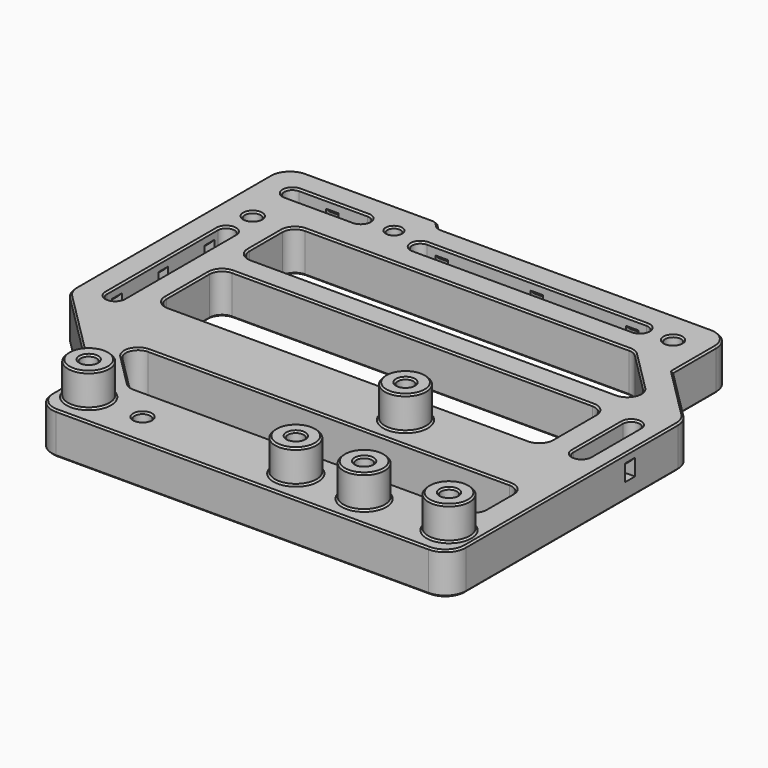
from build123d import *

# Parameters (mm, degrees)
SKETCH_R                                   = 1.9
SKETCH_R_2                                 = 1.6
SKETCH_W                                   = 93
SKETCH_H                                   = 19
PAD_DEPTH                                  = 10
FILLET_R                                   = 5
FILLET001_R                                = 2
FILLET002_R                                = 3
SKETCH001_R                                = 5
SKETCH001_R_2                              = 1.9
PAD001_DEPTH                               = 9
CHAMFER_SIZE                               = 0.4
SKETCH005_W                                = 3
SKETCH005_H                                = 3
POCKET002_DEPTH                            = 6
SKETCH006_W                                = 3
SKETCH006_H                                = 3
POCKET003_DEPTH                            = 4.5
SKETCH007_W                                = 3
SKETCH007_H                                = 3
POCKET004_DEPTH                            = 8
CHAMFER009008004003002002004004004004_SIZE = 1


with BuildPart() as part:
    # Sketch → Pad (new body)
    with BuildSketch(Plane.XY):
        Polygon((-7.5, 97), (-7.5, 31.5), (16, 8), (16, -8), (116, -8), (116, 63), (102, 77), (102, 95), (31, 95), (29, 97), align=None)
        with Locations((35.5, 0)):
            Circle(SKETCH_R, mode=Mode.SUBTRACT)
        with Locations((75, 0)):
            Circle(SKETCH_R_2, mode=Mode.SUBTRACT)
        with Locations((94, 87)):
            Circle(SKETCH_R, mode=Mode.SUBTRACT)
        with Locations((25, 89)):
            Circle(SKETCH_R_2, mode=Mode.SUBTRACT)
        with Locations((0.5, 77)):
            Circle(SKETCH_R, mode=Mode.SUBTRACT)
        with Locations((109.5, 0)):
            Circle(SKETCH_R, mode=Mode.SUBTRACT)
        with BuildLine():
            ThreePointArc((0.5, 91), (-1.5, 89), (0.5, 87))
            Line((0.5, 87), (17, 87))
            ThreePointArc((17, 87), (19, 89), (17, 91))
            Line((0.5, 91), (17, 91))
        make_face(mode=Mode.SUBTRACT)
        with BuildLine():
            ThreePointArc((2.5, 69), (0.5, 71), (-1.5, 69))
            Line((-1.5, 69), (-1.5, 35.5))
            ThreePointArc((-1.5, 35.5), (0.5, 33.5), (2.5, 35.5))
            Line((2.5, 69), (2.5, 35.5))
        make_face(mode=Mode.SUBTRACT)
        with BuildLine():
            ThreePointArc((111.5, 55), (109.5, 57), (107.5, 55))
            Line((107.5, 55), (107.5, 40))
            ThreePointArc((107.5, 40), (109.5, 38), (111.5, 40))
            Line((111.5, 55), (111.5, 40))
        make_face(mode=Mode.SUBTRACT)
        with BuildLine():
            ThreePointArc((33, 89), (31, 87), (33, 85))
            Line((33, 85), (86, 85))
            ThreePointArc((86, 85), (88, 87), (86, 89))
            Line((33, 89), (86, 89))
        make_face(mode=Mode.SUBTRACT)
        with Locations((55, 47.5)):
            Rectangle(SKETCH_W, SKETCH_H, mode=Mode.SUBTRACT)
        Polygon((26, 8), (109.5, 8), (109.5, 22), (12, 22), align=None, mode=Mode.SUBTRACT)
        Polygon((8.5, 79), (8.5, 63), (107, 63), (91, 79), align=None, mode=Mode.SUBTRACT)
    extrude(amount=PAD_DEPTH)

    # Fillet
    fillet_edges = [part.edges().sort_by_distance(p)[0] for p in [
        (-7.5, 97, 5),
        (-7.5, 31.5, 5),
        (16, 8, 5),
        (16, -8, 5),
        (116, -8, 5),
        (116, 63, 5),
        (102, 95, 5),
    ]]
    fillet(fillet_edges, radius=FILLET_R)

    # Fillet001
    fillet001_edges = [part.edges().sort_by_distance(p)[0] for p in [
        (29, 97, 5),
        (31, 95, 5),
    ]]
    fillet(fillet001_edges, radius=FILLET001_R)

    # Fillet002
    fillet002_edges = [part.edges().sort_by_distance(p)[0] for p in [
        (26, 8, 5),
        (12, 22, 5),
        (8.5, 57, 5),
        (8.5, 79, 5),
        (8.5, 63, 5),
        (8.5, 38, 5),
        (109.5, 22, 5),
        (101.5, 57, 5),
        (91, 79, 5),
        (107, 63, 5),
        (101.5, 38, 5),
        (109.5, 8, 5),
    ]]
    fillet(fillet002_edges, radius=FILLET002_R)

    # Sketch001 (on DatumPlane) → Pad001 (join)
    with BuildSketch(Plane.XY.offset(9)):
        with Locations((109.5, 0)):
            Circle(SKETCH001_R)
        with Locations((109.5, 0)):
            Circle(SKETCH001_R_2, mode=Mode.SUBTRACT)
        with Locations((89, 0)):
            Circle(SKETCH001_R)
        with Locations((89, 0)):
            Circle(SKETCH001_R_2, mode=Mode.SUBTRACT)
        with Locations((72.5, 0)):
            Circle(SKETCH001_R)
        with Locations((72.5, 0)):
            Circle(SKETCH001_R_2, mode=Mode.SUBTRACT)
        with Locations((22.5, 0)):
            Circle(SKETCH001_R)
        with Locations((22.5, 0)):
            Circle(SKETCH001_R_2, mode=Mode.SUBTRACT)
        with Locations((75, 30)):
            Circle(SKETCH001_R)
        with Locations((75, 30)):
            Circle(SKETCH001_R_2, mode=Mode.SUBTRACT)
    extrude(amount=PAD001_DEPTH)

    # Chamfer
    chamfer_edges = [part.edges().sort_by_distance(p)[0] for p in [
        (50.62868, 79, 0),
        (90.90541, 78.771639, 0),
        (9.37868, 78.12132, 0),
        (96.87868, 73.12132, 0),
        (8.5, 71, 0),
        (102.528998, 64.85195, 0),
        (9.37868, 63.87868, 0),
        (55.62868, 63, 0),
        (12.835786, 97, 0),
        (28.93694, 96.847759, 0),
        (-6.035534, 95.535534, 0),
        (30, 96, 0),
        (-7.5, 62.785534, 0),
        (31.06306, 95.152241, 0),
        (-7.119398, 31.657651, 0),
        (64.414214, 95, 0),
        (4.25, 19.75, 0),
        (100.535534, 93.535534, 0),
        (15.619398, 7.842349, 0),
        (102, 83.5, 0),
        (16, 1.464466, 0),
        (108.267767, 70.732233, 0),
        (17.464466, -6.535534, 0),
        (115.619398, 62.842349, 0),
        (66, -8, 0),
        (116, 28.964466, 0),
        (114.535534, -6.535534, 0),
        (59.5, 89, 0),
        (88, 87, 0),
        (59.5, 85, 0),
        (31, 87, 0),
        (2.5, 52.25, 0),
        (0.5, 33.5, 0),
        (-1.5, 52.25, 0),
        (0.5, 71, 0),
        (8.75, 91, 0),
        (19, 89, 0),
        (8.75, 87, 0),
        (-1.5, 89, 0),
        (111.5, 47.5, 0),
        (109.5, 38, 0),
        (107.5, 47.5, 0),
        (109.5, 57, 0),
        (92.1, 87, 0),
        (107.6, 0, 0),
        (-1.4, 77, 0),
        (33.6, 0, 0),
        (23.4, 89, 0),
        (73.4, 0, 0),
        (21.12132, 12.87868, 0),
        (16.471002, 20.14805, 0),
        (26.09459, 8.228361, 0),
        (62.87132, 22, 0),
        (66.87132, 8, 0),
        (108.62132, 21.12132, 0),
        (108.62132, 8.87868, 0),
        (109.5, 15, 0),
        (55, 57, 0),
        (9.37868, 56.12132, 0),
        (100.62132, 56.12132, 0),
        (8.5, 47.5, 0),
        (101.5, 47.5, 0),
        (9.37868, 38.87868, 0),
        (100.62132, 38.87868, 0),
        (55, 38, 0),
        (12.835786, 97, 10),
        (28.93694, 96.847759, 10),
        (-6.035534, 95.535534, 10),
        (30, 96, 10),
        (-7.5, 62.785534, 10),
        (31.06306, 95.152241, 10),
        (-7.119398, 31.657651, 10),
        (64.414214, 95, 10),
        (4.25, 19.75, 10),
        (100.535534, 93.535534, 10),
        (15.619398, 7.842349, 10),
        (102, 83.5, 10),
        (16, 1.464466, 10),
        (108.267767, 70.732233, 10),
        (17.464466, -6.535534, 10),
        (115.619398, 62.842349, 10),
        (66, -8, 10),
        (116, 28.964466, 10),
        (114.535534, -6.535534, 10),
        (17.5, 0, 10),
        (33.6, 0, 10),
        (67.5, 0, 10),
        (21.12132, 12.87868, 10),
        (16.471002, 20.14805, 10),
        (26.09459, 8.228361, 10),
        (62.87132, 22, 10),
        (66.87132, 8, 10),
        (108.62132, 21.12132, 10),
        (108.62132, 8.87868, 10),
        (109.5, 15, 10),
        (84, 0, 10),
        (104.5, 0, 10),
        (70, 30, 10),
        (2.5, 52.25, 10),
        (0.5, 71, 10),
        (0.5, 33.5, 10),
        (-1.5, 52.25, 10),
        (55, 57, 10),
        (9.37868, 56.12132, 10),
        (100.62132, 56.12132, 10),
        (8.5, 47.5, 10),
        (101.5, 47.5, 10),
        (9.37868, 38.87868, 10),
        (100.62132, 38.87868, 10),
        (55, 38, 10),
        (-1.4, 77, 10),
        (8.75, 91, 10),
        (-1.5, 89, 10),
        (19, 89, 10),
        (8.75, 87, 10),
        (23.4, 89, 10),
        (50.62868, 79, 10),
        (90.90541, 78.771639, 10),
        (9.37868, 78.12132, 10),
        (96.87868, 73.12132, 10),
        (8.5, 71, 10),
        (102.528998, 64.85195, 10),
        (9.37868, 63.87868, 10),
        (55.62868, 63, 10),
        (111.5, 47.5, 10),
        (109.5, 57, 10),
        (109.5, 38, 10),
        (107.5, 47.5, 10),
        (59.5, 89, 10),
        (31, 87, 10),
        (88, 87, 10),
        (59.5, 85, 10),
        (92.1, 87, 10),
        (17.5, 0, 18),
        (20.6, 0, 18),
        (70, 30, 18),
        (73.1, 30, 18),
        (67.5, 0, 18),
        (70.6, 0, 18),
        (84, 0, 18),
        (87.1, 0, 18),
        (104.5, 0, 18),
        (107.6, 0, 18),
    ]]
    chamfer(chamfer_edges, length=CHAMFER_SIZE)

    # Sketch005 (on Face92 of Chamfer) → Pocket002 (cut)
    with BuildSketch(Plane(origin=(-7.5, 0, 0), x_dir=(0, -1, 0), z_dir=(-1, 0, 0))):
        with Locations((-66.5, 5.5)):
            Rectangle(SKETCH005_W, SKETCH005_H)
        with Locations((-52.5, 5.5)):
            Rectangle(SKETCH005_W, SKETCH005_H)
        with Locations((-38.5, 5.5)):
            Rectangle(SKETCH005_W, SKETCH005_H)
    extrude(amount=-POCKET002_DEPTH, mode=Mode.SUBTRACT)

    # Sketch006 (on Face79 of Pocket002) → Pocket003 (cut)
    with BuildSketch(Plane.YZ.offset(116)):
        with Locations((46.5, 5.5)):
            Rectangle(SKETCH006_W, SKETCH006_H)
    extrude(amount=-POCKET003_DEPTH, mode=Mode.SUBTRACT)

    # Sketch007 (on Face88 of Pocket003) → Pocket004 (cut)
    with BuildSketch(Plane(origin=(0, 97, 0), x_dir=(-1, 0, 0), z_dir=(0, 1, 0))):
        with Locations((-82.5, 5.5)):
            Rectangle(SKETCH007_W, SKETCH007_H)
        with Locations((-59.5, 5.5)):
            Rectangle(SKETCH007_W, SKETCH007_H)
        with Locations((-36.5, 5.5)):
            Rectangle(SKETCH007_W, SKETCH007_H)
        with Locations((-8.5, 5.5)):
            Rectangle(SKETCH007_W, SKETCH007_H)
    extrude(amount=-POCKET004_DEPTH, mode=Mode.SUBTRACT)

    # Chamfer009008004003002002004004004004
    chamfer009008004003002002004004004004_edges = [part.edges().sort_by_distance(p)[0] for p in [
        (116, 46.5, 7),
        (111.5, 46.5, 7),
        (82.5, 95, 7),
        (59.5, 95, 7),
        (36.5, 95, 7),
        (36.5, 89, 7),
        (59.5, 89, 7),
        (82.5, 89, 7),
        (8.5, 91, 7),
        (-1.5, 38.5, 7),
        (-1.5, 52.5, 7),
        (-1.5, 66.5, 7),
        (8.5, 97, 7),
        (-7.5, 66.5, 7),
        (-7.5, 52.5, 7),
        (-7.5, 38.5, 7),
    ]]
    chamfer(chamfer009008004003002002004004004004_edges, length=CHAMFER009008004003002002004004004004_SIZE)


solid = part.part
